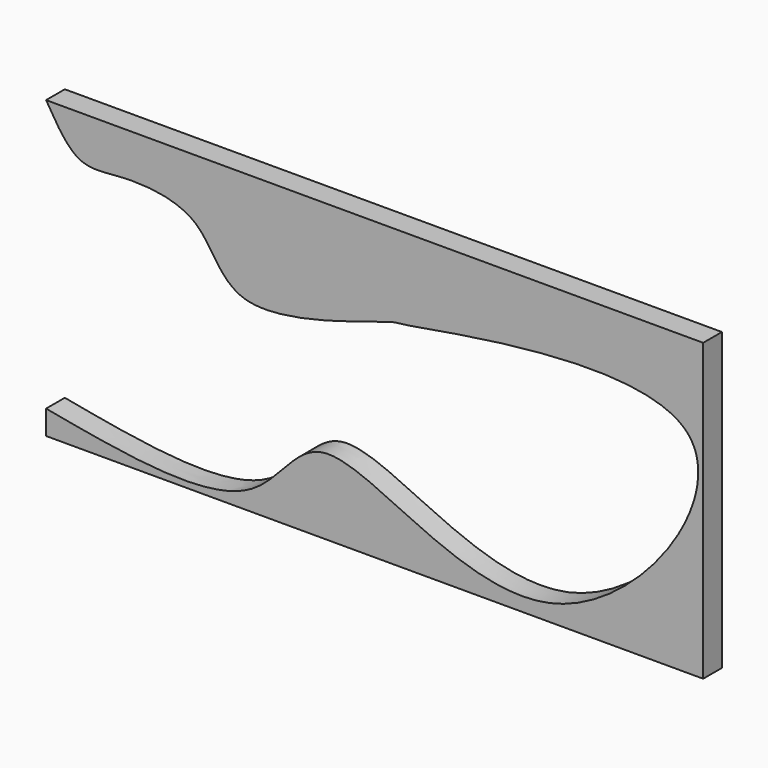
from build123d import *

# Parameters (mm, degrees)
F1_DEPTH = 1.27


with BuildPart() as f1:
    # F0 (on Front) → F1 (new body)
    with BuildSketch(Plane.XZ):
        with BuildLine():
            Line((22.8666104376, 15.6190199777), (-12.7616981044, 15.6190199777))
            add(Edge.make_bspline(
                [(-12.7616981044, 15.6190199777), (-12.2000437486, 14.673848162), (-11.1301123966, 12.8733298396), (-8.5674383543, 13.4324309928), (-3.9919358057, 13.0678012827), (-2.9269244243, 7.8637625628), (6.1432139916, 11.3070995173), (6.1734200361, 10.9704662009), (29.4484988518, 15.8798368767), (14.7660466998, -5.1071635369), (1.9579266316, 6.6833634397), (-1.1239982433, -1.2793166208), (-8.4070319838, 0.0807045662), (-12.7616981044, 0.8938874234)],
                knots=[0, 0, 0, 0, 0.061553119, 0.1172564785, 0.1899216583, 0.2612026103, 0.3621118937, 0.3979662539, 0.5396678383, 0.6692384558, 0.7980443255, 0.8792468132, 1, 1, 1, 1], degree=3))
            Line((-12.7616981044, 0.8938874234), (-12.7616981044, -0.4161298057))
            Line((-12.7616981044, -0.4161298057), (22.8666104376, -0.4161298057))
            Line((22.8666104376, -0.4161298057), (22.8666104376, 15.6190199777))
        make_face()
    extrude(amount=F1_DEPTH)


solid = f1.part
